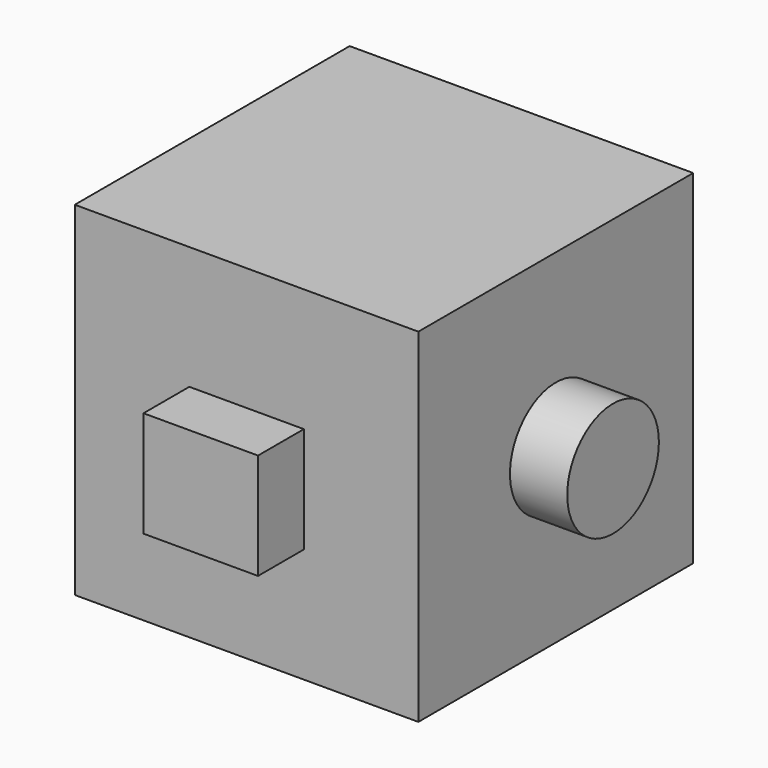
from build123d import *

# Parameters (mm, degrees)
F0_W     = 76.2
F0_H     = 76.2
F1_DEPTH = 76.2
F2_W     = 25.4
F2_H     = 23.510535
F3_DEPTH = 12.7
F4_R     = 12.7
F5_DEPTH = 12.7


with BuildPart() as f1:
    # F0 (on Front) → F1 (new body)
    with BuildSketch(Plane.XZ):
        with Locations((23.867505, 35.862454)):
            Rectangle(F0_W, F0_H)
    extrude(amount=F1_DEPTH)

    # F2 (on face) → F3 (join)
    with BuildSketch(Plane.XZ.offset(76.2)):
        with Locations((23.867505, 34.917721)):
            Rectangle(F2_W, F2_H)
    extrude(amount=F3_DEPTH)

    # F4 (on face) → F5 (join)
    with BuildSketch(Plane.YZ.offset(61.967505)):
        with Locations((-38.1, 35.862454)):
            Circle(F4_R)
    extrude(amount=F5_DEPTH)


solid = f1.part
